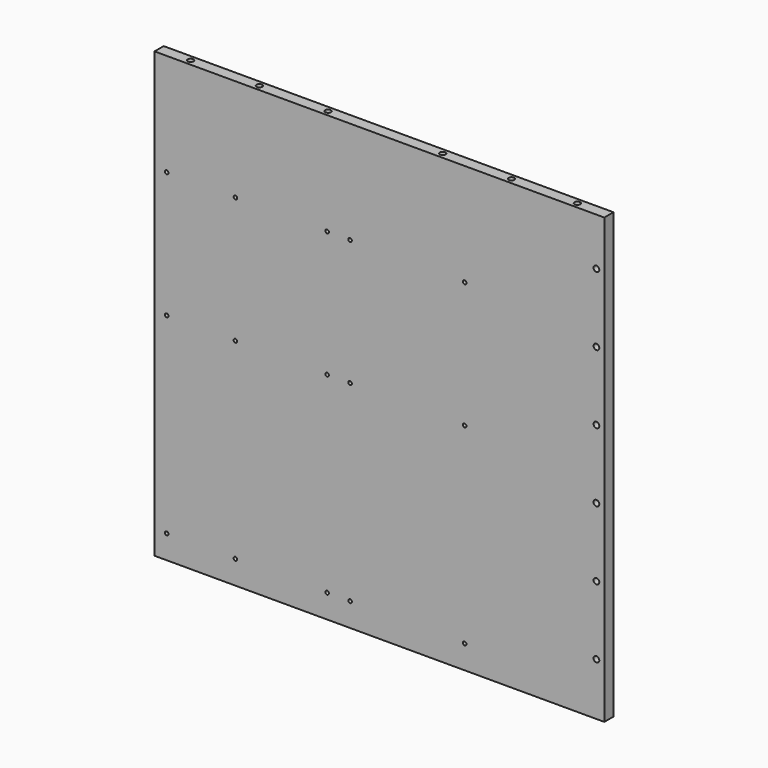
from build123d import *

# Parameters (mm, degrees)
F0_W          = 628
F0_H          = 16
F1_DEPTH      = 620
F2_R          = 4
F3_DEPTH      = 28
F4_R          = 4
F5_DEPTH      = 28
F6_R          = 2.5
F7_DEPTH      = 8
F7_DEPTH_BACK = 4
F8_R          = 4
F9_DEPTH      = 13


with BuildPart() as f1:
    # F0 (on Top) → F1 (new body)
    with BuildSketch(Plane.XY):
        with Locations((6.244911, 0)):
            Rectangle(F0_W, F0_H)
    extrude(amount=F1_DEPTH)

    # F2 (on face) → F3 (cut)
    with BuildSketch(Plane(origin=(0, 0, 0), x_dir=(1, 0, 0), z_dir=(0, 0, -1))):
        with Locations((-263.755089, 0)):
            Circle(F2_R)
        with Locations((-167.755089, 0)):
            Circle(F2_R)
        with Locations((-71.755089, 0)):
            Circle(F2_R)
        with Locations((88.244911, 0)):
            Circle(F2_R)
        with Locations((276.244911, 0)):
            Circle(F2_R)
        with Locations((184.244911, 0)):
            Circle(F2_R)
    extrude(amount=-F3_DEPTH, mode=Mode.SUBTRACT)

    # F4 (on face) → F5 (cut)
    with BuildSketch(Plane.XY.offset(620)):
        with Locations((-263.755089, 0)):
            Circle(F4_R)
        with Locations((-167.755089, 0)):
            Circle(F4_R)
        with Locations((-71.755089, 0)):
            Circle(F4_R)
        with Locations((88.244911, 0)):
            Circle(F4_R)
        with Locations((276.244911, 0)):
            Circle(F4_R)
        with Locations((184.244911, 0)):
            Circle(F4_R)
    extrude(amount=-F5_DEPTH, mode=Mode.SUBTRACT)

    # F6 (on Front) → F7 (cut, two sides)
    with BuildSketch(Plane.XZ) as f7_sk:
        with Locations((-290.755089, 33)):
            Circle(F6_R)
        with Locations((-66.755089, 33)):
            Circle(F6_R)
        with Locations((-194.755089, 33)):
            Circle(F6_R)
        with Locations((-34.755089, 33)):
            Circle(F6_R)
        with Locations((125.244911, 33)):
            Circle(F6_R)
        with Locations((125.244911, 301)):
            Circle(F6_R)
        with Locations((-34.755089, 301)):
            Circle(F6_R)
        with Locations((-194.755089, 301)):
            Circle(F6_R)
        with Locations((-66.755089, 301)):
            Circle(F6_R)
        with Locations((-290.755089, 301)):
            Circle(F6_R)
        with Locations((125.244911, 477)):
            Circle(F6_R)
        with Locations((-34.755089, 477)):
            Circle(F6_R)
        with Locations((-194.755089, 477)):
            Circle(F6_R)
        with Locations((-66.755089, 477)):
            Circle(F6_R)
        with Locations((-290.755089, 477)):
            Circle(F6_R)
    extrude(amount=F7_DEPTH, mode=Mode.SUBTRACT)
    extrude(f7_sk.sketch, amount=-F7_DEPTH_BACK, mode=Mode.SUBTRACT)

    # F8 (on face) → F9 (cut)
    with BuildSketch(Plane.XZ.offset(8)):
        with Locations((309.244911, 553.397981)):
            Circle(F8_R)
        with Locations((309.244911, 457.397981)):
            Circle(F8_R)
        with Locations((309.244911, 361.397981)):
            Circle(F8_R)
        with Locations((309.244911, 265.397981)):
            Circle(F8_R)
        with Locations((309.244911, 169.397981)):
            Circle(F8_R)
        with Locations((309.244911, 73.397981)):
            Circle(F8_R)
    extrude(amount=-F9_DEPTH, mode=Mode.SUBTRACT)


solid = f1.part
